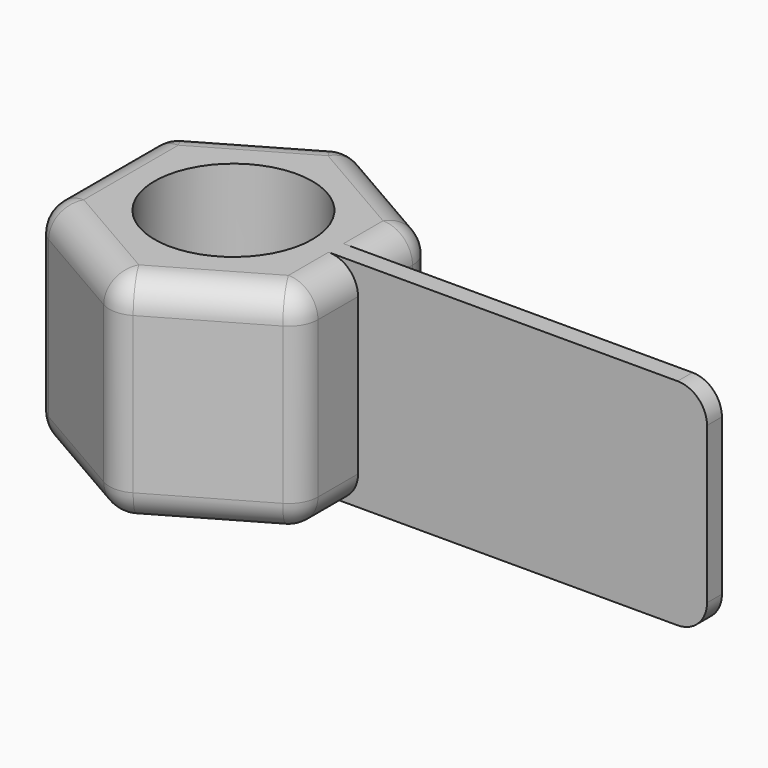
from build123d import *

# Parameters (mm, degrees)
F0_R     = 13.612329
F1_DEPTH = 37.084
F2_W     = 3.215712
F2_H     = 37.084
F3_DEPTH = 60.198
F4_R     = 5.08


with BuildPart() as f1:
    # F0 (on Top) → F1 (new body)
    with BuildSketch(Plane.XY):
        Polygon((22.736654, -13.127013), (22.736654, 13.127013), (0, 26.254026), (-22.736654, 13.127013), (-22.736654, -13.127013), (0, -26.254026), align=None)
        Circle(F0_R, mode=Mode.SUBTRACT)
    extrude(amount=F1_DEPTH)

    # F2 (on face) → F3 (join)
    with BuildSketch(Plane.YZ.offset(22.736654)):
        with Locations((0.064627, 18.542)):
            Rectangle(F2_W, F2_H)
    extrude(amount=F3_DEPTH)

    # F4
    f4_edges = [f1.edges().sort_by_distance(p)[0] for p in [
        (-11.368327, -19.69052, 37.084),
        (22.736654, -7.335121, 37.084),
        (22.736654, 7.399748, 37.084),
        (11.368327, 19.69052, 37.084),
        (-11.368327, 19.69052, 37.084),
        (-22.736654, 0, 37.084),
        (11.368327, 19.69052, 0),
        (-11.368327, 19.69052, 0),
        (-22.736654, 0, 0),
        (-11.368327, -19.69052, 0),
        (11.368327, -19.69052, 0),
        (22.736654, -7.335121, 0),
        (22.736654, 7.399748, 0),
        (82.934654, 0.064627, 0),
        (82.934654, 0.064627, 37.084),
        (11.368327, -19.69052, 37.084),
        (-22.736654, 13.127013, 18.542),
        (22.736654, 13.127013, 18.542),
        (0, 26.254026, 18.542),
        (-22.736654, -13.127013, 18.542),
        (0, -26.254026, 18.542),
        (22.736654, -13.127013, 18.542),
    ]]
    fillet(f4_edges, radius=F4_R)


solid = f1.part
